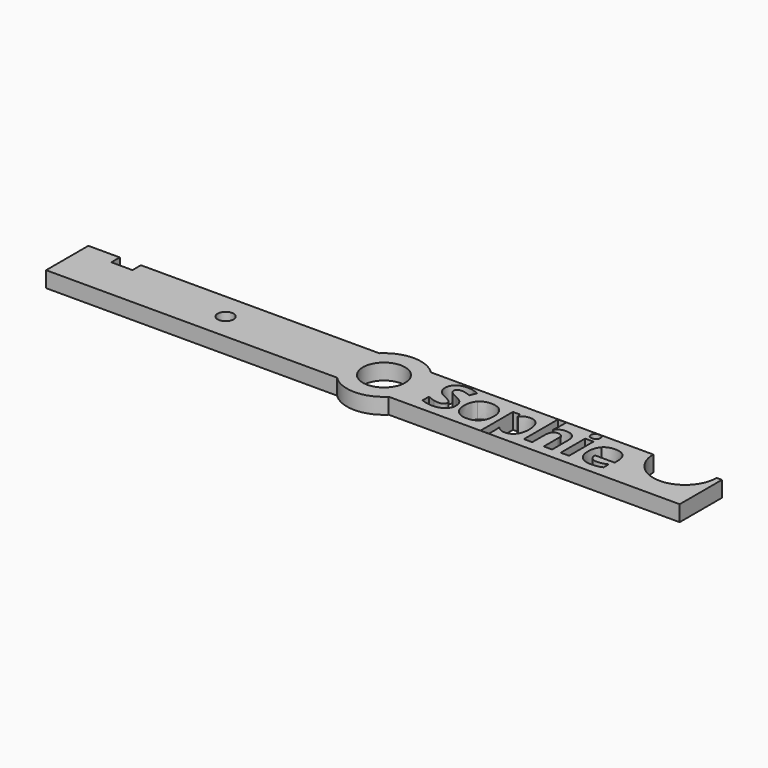
from build123d import *

# Parameters (mm, degrees)
F0_R     = 1.5
F0_R_2   = 4
F0_W     = 1.5788115779
F0_H     = 5.7884235604
F0_H_2   = 0.0224566273
F1_DEPTH = 3


with BuildPart() as f1:
    # F0 (on Top) → F1 (new body)
    with BuildSketch(Plane.XY):
        with BuildLine():
            Line((-54.0401674807, 5), (-60, 5))
            Line((-60, 5), (-60, -5))
            Line((-60, -5), (-4.8989794856, -5))
            ThreePointArc((-4.8989794856, -5), (-7, 0), (-4.8989794856, 5))
            Line((-4.8989794856, 5), (-50.0401674807, 5))
            Line((-50.0401674807, 5), (-50.0401674807, 3))
            Line((-50.0401674807, 3), (-54.0401674807, 3))
            Line((-54.0401674807, 3), (-54.0401674807, 5))
        make_face()
        with Locations((-30, 0)):
            Circle(F0_R, mode=Mode.SUBTRACT)
        with BuildLine():
            ThreePointArc((-4.8989794856, 5), (-7, 0), (-4.8989794856, -5))
            Line((-4.8989794856, -5), (4.8989794856, -5))
            ThreePointArc((4.8989794856, -5), (6.4534043883, -2.7117470016), (7, 0))
            ThreePointArc((7, 0), (6.4534043883, 2.7117470016), (4.8989794856, 5))
            Line((4.8989794856, 5), (-4.8989794856, 5))
        make_face()
        Circle(F0_R_2, mode=Mode.SUBTRACT)
        with BuildLine():
            Line((4.8989794856, -5), (-4.8989794856, -5))
            ThreePointArc((-4.8989794856, -5), (0, -7), (4.8989794856, -5))
        make_face()
        with BuildLine():
            ThreePointArc((4.8989794856, 5), (0, 7), (-4.8989794856, 5))
            Line((-4.8989794856, 5), (4.8989794856, 5))
        make_face()
        with BuildLine():
            ThreePointArc((7, 0), (6.4534043883, -2.7117470016), (4.8989794856, -5))
            Line((4.8989794856, -5), (22.270108379, -5))
            Line((22.270108379, -5), (22.270108379, -4.9775433727))
            Line((22.270108379, -4.9775433727), (22.270108379, 2.6842929448))
            Line((22.270108379, 2.6842929448), (23.5540317503, 2.6842929448))
            Line((23.5540317503, 2.6842929448), (23.7760262429, 1.9338190258))
            Line((23.7760262429, 1.9338190258), (23.8489199569, 1.9338190258))
            add(Edge.make_bspline(
                [(23.8489199569, 1.9338190258), (24.4039061884, 2.7919768404), (25.4906851969, 2.7919768404)],
                knots=[0, 0, 0, 1, 1, 1], degree=2))
            add(Edge.make_bspline(
                [(25.4906851969, 2.7919768404), (26.5161672186, 2.7919768404), (27.0960035798, 2.0000860385)],
                knots=[0, 0, 0, 1, 1, 1], degree=2))
            add(Edge.make_bspline(
                [(27.0960035798, 2.0000860385), (27.675839941, 1.2081952366), (27.675839941, -0.1999787835)],
                knots=[0, 0, 0, 1, 1, 1], degree=2))
            add(Edge.make_bspline(
                [(27.675839941, -0.1999787835), (27.675839941, -1.1260602862), (27.4033168513, -1.8094388548)],
                knots=[0, 0, 0, 1, 1, 1], degree=2))
            add(Edge.make_bspline(
                [(27.4033168513, -1.8094388548), (27.1307937615, -2.4928174234), (26.6288211402, -2.850659292)],
                knots=[0, 0, 0, 1, 1, 1], degree=2))
            add(Edge.make_bspline(
                [(26.6288211402, -2.850659292), (26.1268485189, -3.2085011607), (25.4492683139, -3.2085011607)],
                knots=[0, 0, 0, 1, 1, 1], degree=2))
            add(Edge.make_bspline(
                [(25.4492683139, -3.2085011607), (24.4287563181, -3.2085011607), (23.8489199569, -2.4679672936)],
                knots=[0, 0, 0, 1, 1, 1], degree=2))
            Line((23.8489199569, -2.4679672936), (23.766086191, -2.4679672936))
            add(Edge.make_bspline(
                [(23.766086191, -2.4679672936), (23.8489199569, -3.1919344075), (23.8489199569, -3.3062450044)],
                knots=[0, 0, 0, 1, 1, 1], degree=2))
            Line((23.8489199569, -3.3062450044), (23.8489199569, -4.9775433727))
            Line((23.8489199569, -4.9775433727), (23.8489199569, -5))
            Line((23.8489199569, -5), (60, -5))
            Line((60, -5), (60, 5))
            Line((60, 5), (59, 5))
            ThreePointArc((59, 5), (53, -1), (47, 5))
            Line((47, 5), (4.8989794856, 5))
            ThreePointArc((4.8989794856, 5), (6.4534043883, 2.7117470016), (7, 0))
        make_face()
        with BuildLine():
            add(Edge.make_bspline(
                [(14.0637671923, 0.2481518899), (14.4572275803, -0.2612757703), (14.4572275803, -1.0018096374)],
                knots=[0, 0, 0, 1, 1, 1], degree=2))
            add(Edge.make_bspline(
                [(14.4572275803, -1.0018096374), (14.4572275803, -2.0272916591), (13.7191787262, -2.6178964099)],
                knots=[0, 0, 0, 1, 1, 1], degree=2))
            add(Edge.make_bspline(
                [(13.7191787262, -2.6178964099), (12.9811298721, -3.2085011607), (11.6673863451, -3.2085011607)],
                knots=[0, 0, 0, 1, 1, 1], degree=2))
            add(Edge.make_bspline(
                [(11.6673863451, -3.2085011607), (10.4547000125, -3.2085011607), (9.5236484838, -2.751258773)],
                knots=[0, 0, 0, 1, 1, 1], degree=2))
            Line((9.5236484838, -2.751258773), (9.5236484838, -1.2602509869))
            add(Edge.make_bspline(
                [(9.5236484838, -1.2602509869), (10.2890324807, -1.6031827777), (10.81999692, -1.7423435044)],
                knots=[0, 0, 0, 1, 1, 1], degree=2))
            add(Edge.make_bspline(
                [(10.81999692, -1.7423435044), (11.3509613594, -1.8815042311), (11.7916369939, -1.8815042311)],
                knots=[0, 0, 0, 1, 1, 1], degree=2))
            add(Edge.make_bspline(
                [(11.7916369939, -1.8815042311), (12.318459745, -1.8815042311), (12.6009228867, -1.68021818)],
                knots=[0, 0, 0, 1, 1, 1], degree=2))
            add(Edge.make_bspline(
                [(12.6009228867, -1.68021818), (12.8833860284, -1.4789321289), (12.8833860284, -1.0796733773)],
                knots=[0, 0, 0, 1, 1, 1], degree=2))
            add(Edge.make_bspline(
                [(12.8833860284, -1.0796733773), (12.8833860284, -0.8576788847), (12.7591353795, -0.6837279763)],
                knots=[0, 0, 0, 1, 1, 1], degree=2))
            add(Edge.make_bspline(
                [(12.7591353795, -0.6837279763), (12.6348847307, -0.509777068), (12.3938384719, -0.3499078998)],
                knots=[0, 0, 0, 1, 1, 1], degree=2))
            add(Edge.make_bspline(
                [(12.3938384719, -0.3499078998), (12.1527922132, -0.1900387316), (11.4122583461, 0.162833111)],
                knots=[0, 0, 0, 1, 1, 1], degree=2))
            add(Edge.make_bspline(
                [(11.4122583461, 0.162833111), (10.7197680633, 0.4891981487), (10.3726945842, 0.7890563812)],
                knots=[0, 0, 0, 1, 1, 1], degree=2))
            add(Edge.make_bspline(
                [(10.3726945842, 0.7890563812), (10.0256211051, 1.0889146137), (9.8185366904, 1.4881733653)],
                knots=[0, 0, 0, 1, 1, 1], degree=2))
            add(Edge.make_bspline(
                [(9.8185366904, 1.4881733653), (9.6114522757, 1.8874321169), (9.6114522757, 2.4192248939)],
                knots=[0, 0, 0, 1, 1, 1], degree=2))
            add(Edge.make_bspline(
                [(9.6114522757, 2.4192248939), (9.6114522757, 3.4248268118), (10.2923458313, 3.9988648094)],
                knots=[0, 0, 0, 1, 1, 1], degree=2))
            add(Edge.make_bspline(
                [(10.2923458313, 3.9988648094), (10.9732393869, 4.572902807), (12.1743289923, 4.572902807)],
                knots=[0, 0, 0, 1, 1, 1], degree=2))
            add(Edge.make_bspline(
                [(12.1743289923, 4.572902807), (12.7641054055, 4.572902807), (13.3000398708, 4.4337420804)],
                knots=[0, 0, 0, 1, 1, 1], degree=2))
            add(Edge.make_bspline(
                [(13.3000398708, 4.4337420804), (13.8359743361, 4.2945813537), (14.4207807233, 4.04111003)],
                knots=[0, 0, 0, 1, 1, 1], degree=2))
            Line((14.4207807233, 4.04111003), (13.9038980241, 2.7919768404))
            add(Edge.make_bspline(
                [(13.9038980241, 2.7919768404), (13.2975548578, 3.0404781381), (12.9016094569, 3.1390503195)],
                knots=[0, 0, 0, 1, 1, 1], degree=2))
            add(Edge.make_bspline(
                [(12.9016094569, 3.1390503195), (12.5056640559, 3.2376225009), (12.1229720575, 3.2376225009)],
                knots=[0, 0, 0, 1, 1, 1], degree=2))
            add(Edge.make_bspline(
                [(12.1229720575, 3.2376225009), (11.6673863451, 3.2376225009), (11.4238550734, 3.0255680602)],
                knots=[0, 0, 0, 1, 1, 1], degree=2))
            add(Edge.make_bspline(
                [(11.4238550734, 3.0255680602), (11.1803238017, 2.8135136195), (11.1803238017, 2.4722385041)],
                knots=[0, 0, 0, 1, 1, 1], degree=2))
            add(Edge.make_bspline(
                [(11.1803238017, 2.4722385041), (11.1803238017, 2.2601840634), (11.2788959831, 2.1019715705)],
                knots=[0, 0, 0, 1, 1, 1], degree=2))
            add(Edge.make_bspline(
                [(11.2788959831, 2.1019715705), (11.3774681645, 1.9437590777), (11.5920076181, 1.7963149744)],
                knots=[0, 0, 0, 1, 1, 1], degree=2))
            add(Edge.make_bspline(
                [(11.5920076181, 1.7963149744), (11.8065470718, 1.6488708711), (12.6083779256, 1.2661788727)],
                knots=[0, 0, 0, 1, 1, 1], degree=2))
            add(Edge.make_bspline(
                [(12.6083779256, 1.2661788727), (13.6703068043, 0.7575795501), (14.0637671923, 0.2481518899)],
                knots=[0, 0, 0, 1, 1, 1], degree=2))
        make_face(mode=Mode.SUBTRACT)
        with BuildLine():
            add(Edge.make_bspline(
                [(20.6233731131, 1.3896011839), (20.9646482286, 0.7111926412), (20.9646482286, -0.1999787835)],
                knots=[0, 0, 0, 1, 1, 1], degree=2))
            add(Edge.make_bspline(
                [(20.9646482286, -0.1999787835), (20.9646482286, -1.6131228296), (20.2191443356, -2.4108119952)],
                knots=[0, 0, 0, 1, 1, 1], degree=2))
            add(Edge.make_bspline(
                [(20.2191443356, -2.4108119952), (19.4736404426, -3.2085011607), (18.1433301624, -3.2085011607)],
                knots=[0, 0, 0, 1, 1, 1], degree=2))
            add(Edge.make_bspline(
                [(18.1433301624, -3.2085011607), (17.3100224775, -3.2085011607), (16.6730308178, -2.8432042531)],
                knots=[0, 0, 0, 1, 1, 1], degree=2))
            add(Edge.make_bspline(
                [(16.6730308178, -2.8432042531), (16.0360391581, -2.4779073455), (15.6947640427, -1.7945287769)],
                knots=[0, 0, 0, 1, 1, 1], degree=2))
            add(Edge.make_bspline(
                [(15.6947640427, -1.7945287769), (15.3534889272, -1.1111502083), (15.3534889272, -0.1999787835)],
                knots=[0, 0, 0, 1, 1, 1], degree=2))
            add(Edge.make_bspline(
                [(15.3534889272, -0.1999787835), (15.3534889272, 1.2181352885), (16.0931944566, 2.0050560644)],
                knots=[0, 0, 0, 1, 1, 1], degree=2))
            add(Edge.make_bspline(
                [(16.0931944566, 2.0050560644), (16.832899986, 2.7919768404), (18.1748069934, 2.7919768404)],
                knots=[0, 0, 0, 1, 1, 1], degree=2))
            add(Edge.make_bspline(
                [(18.1748069934, 2.7919768404), (19.0081146783, 2.7919768404), (19.645106338, 2.4299932835)],
                knots=[0, 0, 0, 1, 1, 1], degree=2))
            add(Edge.make_bspline(
                [(19.645106338, 2.4299932835), (20.2820979977, 2.0680097265), (20.6233731131, 1.3896011839)],
                knots=[0, 0, 0, 1, 1, 1], degree=2))
        make_face(mode=Mode.SUBTRACT)
        with Locations((36.7370255918, -0.2099188355)):
            Rectangle(F0_W, F0_H, mode=Mode.SUBTRACT)
        with BuildLine():
            add(Edge.make_bspline(
                [(42.9520430465, -3.1074439663), (42.4815472563, -3.2085011607), (41.802310376, -3.2085011607)],
                knots=[0, 0, 0, 1, 1, 1], degree=2))
            add(Edge.make_bspline(
                [(41.802310376, -3.2085011607), (40.4057330831, -3.2085011607), (39.6188123071, -2.4364904626)],
                knots=[0, 0, 0, 1, 1, 1], degree=2))
            add(Edge.make_bspline(
                [(39.6188123071, -2.4364904626), (38.8318915311, -1.6644797645), (38.8318915311, -0.2513357184)],
                knots=[0, 0, 0, 1, 1, 1], degree=2))
            add(Edge.make_bspline(
                [(38.8318915311, -0.2513357184), (38.8318915311, 1.2032252106), (39.5591719957, 1.9976010255)],
                knots=[0, 0, 0, 1, 1, 1], degree=2))
            add(Edge.make_bspline(
                [(39.5591719957, 1.9976010255), (40.2864524602, 2.7919768404), (41.5703758315, 2.7919768404)],
                knots=[0, 0, 0, 1, 1, 1], degree=2))
            add(Edge.make_bspline(
                [(41.5703758315, 2.7919768404), (42.7963155667, 2.7919768404), (43.4796941353, 2.093688194)],
                knots=[0, 0, 0, 1, 1, 1], degree=2))
            add(Edge.make_bspline(
                [(43.4796941353, 2.093688194), (44.1630727038, 1.3953995475), (44.1630727038, 0.162833111)],
                knots=[0, 0, 0, 1, 1, 1], degree=2))
            Line((44.1630727038, 0.162833111), (44.1630727038, -0.6042075611))
            Line((44.1630727038, -0.6042075611), (40.4305832128, -0.6042075611))
            add(Edge.make_bspline(
                [(40.4305832128, -0.6042075611), (40.4570900179, -1.2768177401), (40.8298419644, -1.6545397126)],
                knots=[0, 0, 0, 1, 1, 1], degree=2))
            add(Edge.make_bspline(
                [(40.8298419644, -1.6545397126), (41.2025939109, -2.032261685), (41.87520409, -2.032261685)],
                knots=[0, 0, 0, 1, 1, 1], degree=2))
            add(Edge.make_bspline(
                [(41.87520409, -2.032261685), (42.3987134904, -2.032261685), (42.8642392547, -1.9237494517)],
                knots=[0, 0, 0, 1, 1, 1], degree=2))
            add(Edge.make_bspline(
                [(42.8642392547, -1.9237494517), (43.329765019, -1.8152372184), (43.8367076662, -1.5766759726)],
                knots=[0, 0, 0, 1, 1, 1], degree=2))
            Line((43.8367076662, -1.5766759726), (43.8367076662, -2.7993023572))
            add(Edge.make_bspline(
                [(43.8367076662, -2.7993023572), (43.4225388368, -3.0063867719), (42.9520430465, -3.1074439663)],
                knots=[0, 0, 0, 1, 1, 1], degree=2))
        make_face(mode=Mode.SUBTRACT)
        with BuildLine():
            Line((34.3224213161, 0.6697757583), (34.3224213161, -3.1041306157))
            Line((34.3224213161, -3.1041306157), (32.7436097382, -3.1041306157))
            Line((32.7436097382, -3.1041306157), (32.7436097382, 0.277143708))
            add(Edge.make_bspline(
                [(32.7436097382, 0.277143708), (32.7436097382, 1.5295902482), (31.8109015343, 1.5295902482)],
                knots=[0, 0, 0, 1, 1, 1], degree=2))
            add(Edge.make_bspline(
                [(31.8109015343, 1.5295902482), (31.1482314072, 1.5295902482), (30.8533432006, 1.0789745618)],
                knots=[0, 0, 0, 1, 1, 1], degree=2))
            add(Edge.make_bspline(
                [(30.8533432006, 1.0789745618), (30.558454994, 0.6283588754), (30.558454994, -0.3805563932)],
                knots=[0, 0, 0, 1, 1, 1], degree=2))
            Line((30.558454994, -0.3805563932), (30.558454994, -3.1041306157))
            Line((30.558454994, -3.1041306157), (28.9796434162, -3.1041306157))
            Line((28.9796434162, -3.1041306157), (28.9796434162, 4.9522814548))
            Line((28.9796434162, 4.9522814548), (30.558454994, 4.9522814548))
            Line((30.558454994, 4.9522814548), (30.558454994, 3.3105162149))
            add(Edge.make_bspline(
                [(30.558454994, 3.3105162149), (30.558454994, 3.118341878), (30.522008137, 2.409284842)],
                knots=[0, 0, 0, 1, 1, 1], degree=2))
            Line((30.522008137, 2.409284842), (30.48556128, 1.9437590777))
            Line((30.48556128, 1.9437590777), (30.5683950459, 1.9437590777))
            add(Edge.make_bspline(
                [(30.5683950459, 1.9437590777), (31.0968744723, 2.7919768404), (32.2466071429, 2.7919768404)],
                knots=[0, 0, 0, 1, 1, 1], degree=2))
            add(Edge.make_bspline(
                [(32.2466071429, 2.7919768404), (33.2671191386, 2.7919768404), (33.7947702274, 2.2436173102)],
                knots=[0, 0, 0, 1, 1, 1], degree=2))
            add(Edge.make_bspline(
                [(33.7947702274, 2.2436173102), (34.3224213161, 1.69525778), (34.3224213161, 0.6697757583)],
                knots=[0, 0, 0, 1, 1, 1], degree=2))
        make_face(mode=Mode.SUBTRACT)
        with BuildLine():
            add(Edge.make_bspline(
                [(36.7395106048, 3.4032900327), (35.8796961148, 3.4032900327), (35.8796961148, 4.1802707567)],
                knots=[0, 0, 0, 1, 1, 1], degree=2))
            add(Edge.make_bspline(
                [(35.8796961148, 4.1802707567), (35.8796961148, 4.9522814548), (36.7395106048, 4.9522814548)],
                knots=[0, 0, 0, 1, 1, 1], degree=2))
            add(Edge.make_bspline(
                [(36.7395106048, 4.9522814548), (37.5993250947, 4.9522814548), (37.5993250947, 4.1802707567)],
                knots=[0, 0, 0, 1, 1, 1], degree=2))
            add(Edge.make_bspline(
                [(37.5993250947, 4.1802707567), (37.5993250947, 3.8124888362), (37.384785641, 3.6078894344)],
                knots=[0, 0, 0, 1, 1, 1], degree=2))
            add(Edge.make_bspline(
                [(37.384785641, 3.6078894344), (37.1702461874, 3.4032900327), (36.7395106048, 3.4032900327)],
                knots=[0, 0, 0, 1, 1, 1], degree=2))
        make_face(mode=Mode.SUBTRACT)
        with Locations((23.059514168, -4.9887716863)):
            Rectangle(F0_W, F0_H_2)
    extrude(amount=F1_DEPTH)


solid = f1.part
